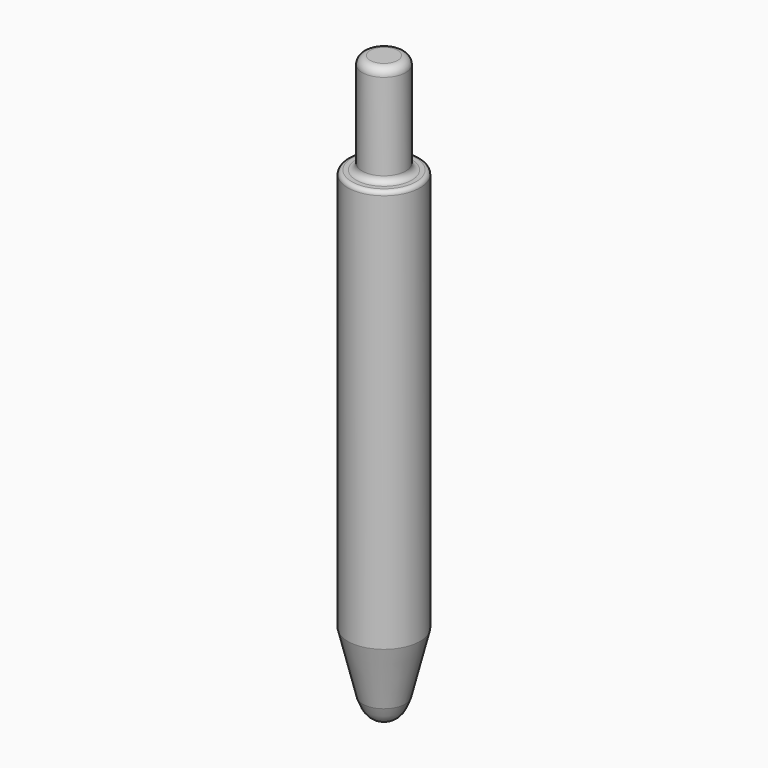
from build123d import *


with BuildPart() as f1:
    # F0 (on Front) → F1 (revolve)
    with BuildSketch(Plane.XZ):
        with BuildLine():
            Line((-8.97, -53.276034), (0, -53.276034))
            Line((0, -53.276034), (0, 46.723966))
            Line((0, 46.723966), (0, 71.723966))
            Line((0, 71.723966), (-3.4, 71.723966))
            ThreePointArc((-3.4, 71.723966), (-4.814214, 71.138179), (-5.4, 69.723966))
            Line((-5.4, 69.723966), (-5.4, 48.223966))
            ThreePointArc((-5.4, 48.223966), (-5.83934, 47.163306), (-6.9, 46.723966))
            Line((-6.9, 46.723966), (-7.97, 46.723966))
            ThreePointArc((-7.97, 46.723966), (-8.677107, 46.431073), (-8.97, 45.723966))
            Line((-8.97, 45.723966), (-8.97, -53.276034))
        make_face()
        with BuildLine():
            Line((0, -73.276034), (0, -53.276034))
            Line((0, -53.276034), (-8.97, -53.276034))
            Line((-8.97, -53.276034), (-5.286714, -68.176575))
            add(Edge.make_bspline(
                [(0, -73.276034), (-3.358694, -72.929113), (-4.330067, -70.94463), (-5.286714, -68.176575)],
                knots=[0, 0, 0, 0, 7.345327, 7.345327, 7.345327, 7.345327], degree=3))
        make_face()
        with BuildLine():
            Line((-8.97, -53.276034), (0, -53.276034))
            Line((0, -53.276034), (0, 46.723966))
            Line((0, 46.723966), (0, 71.723966))
            Line((0, 71.723966), (-3.4, 71.723966))
            ThreePointArc((-3.4, 71.723966), (-4.814214, 71.138179), (-5.4, 69.723966))
            Line((-5.4, 69.723966), (-5.4, 48.223966))
            ThreePointArc((-5.4, 48.223966), (-5.83934, 47.163306), (-6.9, 46.723966))
            Line((-6.9, 46.723966), (-7.97, 46.723966))
            ThreePointArc((-7.97, 46.723966), (-8.677107, 46.431073), (-8.97, 45.723966))
            Line((-8.97, 45.723966), (-8.97, -53.276034))
        make_face()
    revolve(axis=Axis((0, 0, -3.276034), (0, 0, 1)))


solid = f1.part
